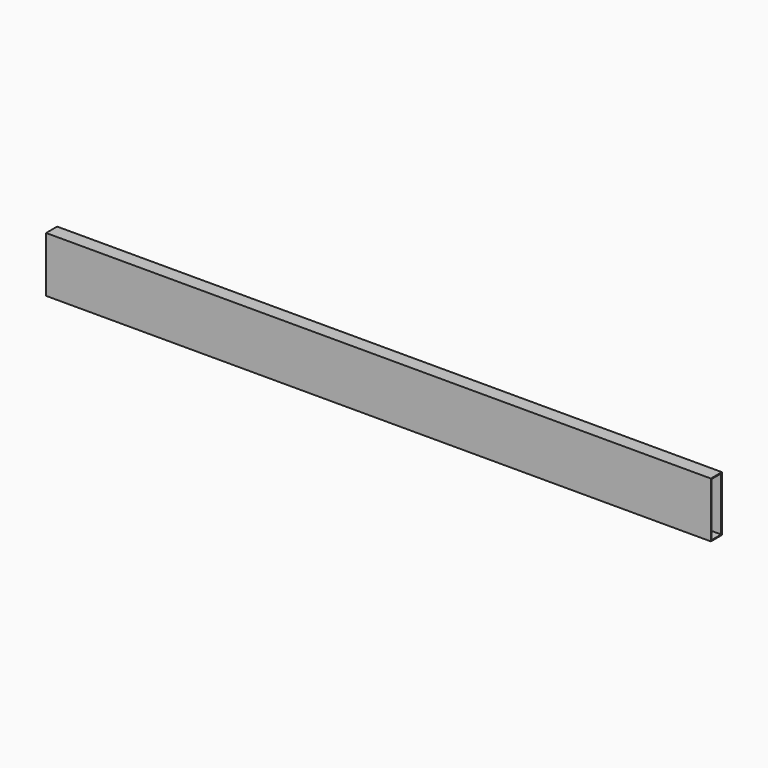
from build123d import *

# Parameters (mm, degrees)
F0_W     = 50.8
F0_H     = 203.2
F0_W_2   = 44.45
F0_H_2   = 196.85
F1_DEPTH = 1219.2


with BuildPart() as f1:
    # F0 (on Right) → F1 (new body, symmetric)
    with BuildSketch(Plane.YZ):
        with Locations((0, 2082.8)):
            Rectangle(F0_W, F0_H)
        with Locations((0, 2082.8)):
            Rectangle(F0_W_2, F0_H_2, mode=Mode.SUBTRACT)
    extrude(amount=F1_DEPTH, both=True)


solid = f1.part
